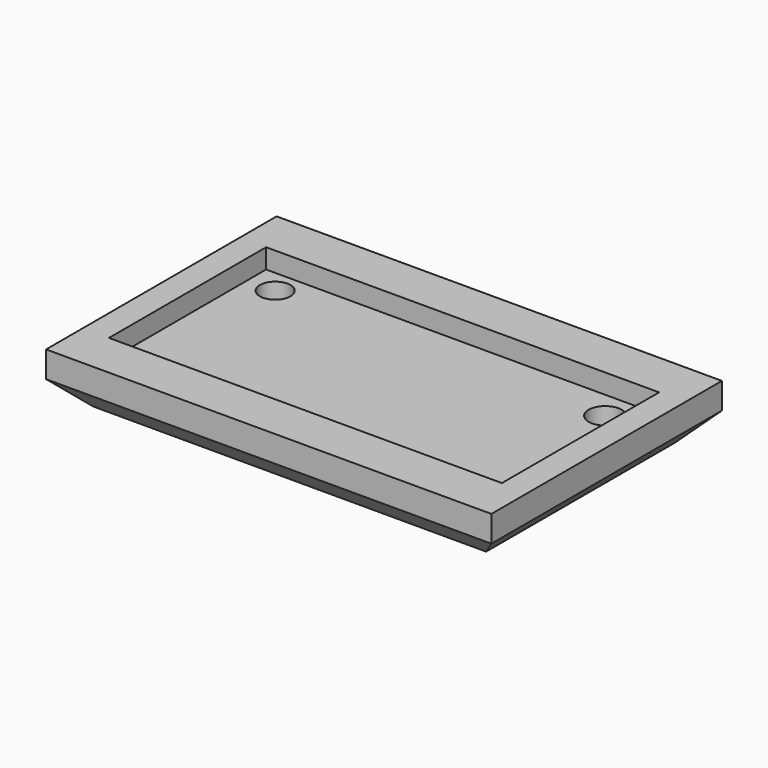
from build123d import *

# Parameters (mm, degrees)
F0_W     = 34
F0_H     = 22
F1_DEPTH = 4
F2_SIZE  = 2
F3_W     = 30
F3_H     = 15
F4_DEPTH = 1.5
F5_R     = 1.169255
F5_R_2   = 1.258596
F6_DEPTH = 25


with BuildPart() as f1:
    # F0 (on Top) → F1 (new body)
    with BuildSketch(Plane.XY):
        Rectangle(F0_W, F0_H)
    extrude(amount=F1_DEPTH)

    # F2
    f2_edges = [f1.edges().sort_by_distance(p)[0] for p in [
        (-17, 0, 0),
        (17, 0, 0),
        (0, 11, 0),
        (0, -11, 0),
    ]]
    chamfer(f2_edges, length=F2_SIZE)

    # F3 (on face) → F4 (cut)
    with BuildSketch(Plane.XY.offset(4)):
        Rectangle(F3_W, F3_H)
    extrude(amount=-F4_DEPTH, mode=Mode.SUBTRACT)

    # F5 (on face) → F6 (cut)
    with BuildSketch(Plane.XY.offset(2.5)):
        with Locations((-12.872203, 5.703713)):
            Circle(F5_R)
        with Locations((12.584788, 5.37942)):
            Circle(F5_R_2)
    extrude(amount=-F6_DEPTH, mode=Mode.SUBTRACT)


solid = f1.part
